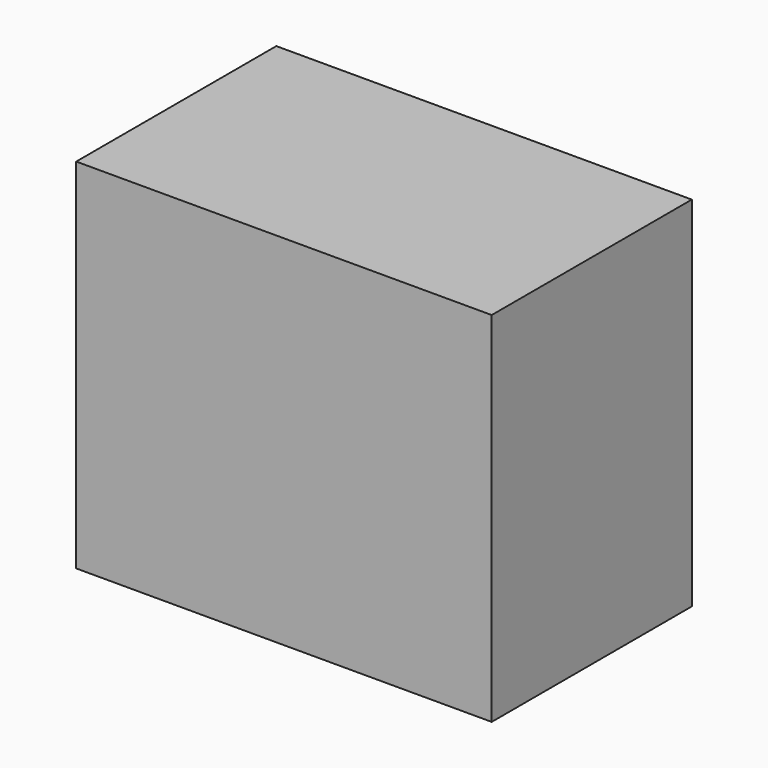
from build123d import *

# Parameters (mm, degrees)
F1_W     = 88.389794
F1_H     = 53.204852
F2_DEPTH = 76.2


with BuildPart() as f2:
    # F1 (on face) → F2 (new body)
    with BuildSketch(Plane.XY):
        with Locations((16.949351, -6.234276)):
            Rectangle(F1_W, F1_H)
    extrude(amount=F2_DEPTH)


solid = f2.part
